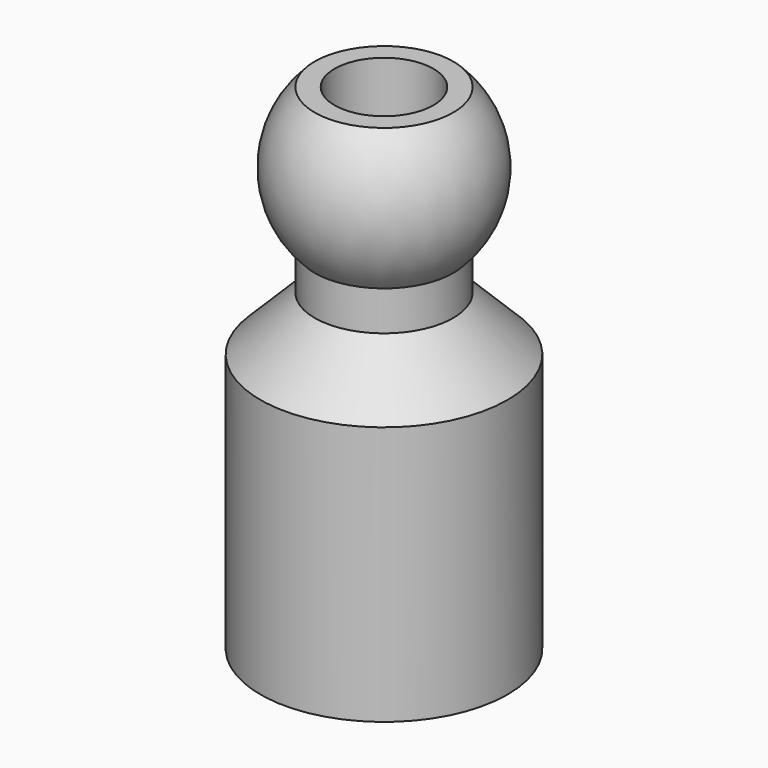
from build123d import *

# Parameters (mm, degrees)
F4_R     = 2.5
F5_DEPTH = 25.001


with BuildPart() as f1:
    # F0 (on Front) → F1 (revolve)
    with BuildSketch(Plane.XZ):
        with BuildLine():
            Line((-6.25, 13.108572), (-6.25, 0))
            Line((-6.25, 0), (0, 0))
            Line((0, 0), (0, 25))
            Line((0, 25), (-3.5, 25))
            ThreePointArc((-3.5, 25), (-5, 21.429286), (-3.5, 17.858572))
            Line((-3.5, 17.858572), (-3.5, 15.858572))
            Line((-3.5, 15.858572), (-6.25, 13.108572))
        make_face()
    revolve(axis=Axis((0, 0, 12.5), (0, 0, 1)))

    # F2 (on Front) → F3 (revolve, cut)
    with BuildSketch(Plane.XZ):
        with BuildLine():
            Line((0, 0), (0, 7.291288))
            ThreePointArc((0, 7.291288), (-3.535534, 5.826822), (-5, 2.291288))
            ThreePointArc((-5, 2.291288), (-4.859037, 1.112408), (-4.444097, 0))
            Line((-4.444097, 0), (0, 0))
        make_face()
        with BuildLine():
            ThreePointArc((-5, 2.291288), (-3.535534, 5.826822), (0, 7.291288))
            Line((0, 7.291288), (0, 10.291288))
            ThreePointArc((0, 10.291288), (-3.647185, 7.008278), (-5, 2.291288))
        make_face()
        with BuildLine():
            ThreePointArc((-4.444097, 0), (-4.859037, 1.112408), (-5, 2.291288))
            ThreePointArc((-5, 2.291288), (-4.924681, 1.135866), (-4.7, 0))
            Line((-4.7, 0), (-4.444097, 0))
        make_face()
    revolve(axis=Axis((0, 0, 2.291288), (0, 0, 1)), mode=Mode.SUBTRACT)

    # F4 (on face) → F5 (cut, through all)
    with BuildSketch(Plane.XY.offset(25)):
        Circle(F4_R)
    extrude(amount=-F5_DEPTH, mode=Mode.SUBTRACT)


solid = f1.part
